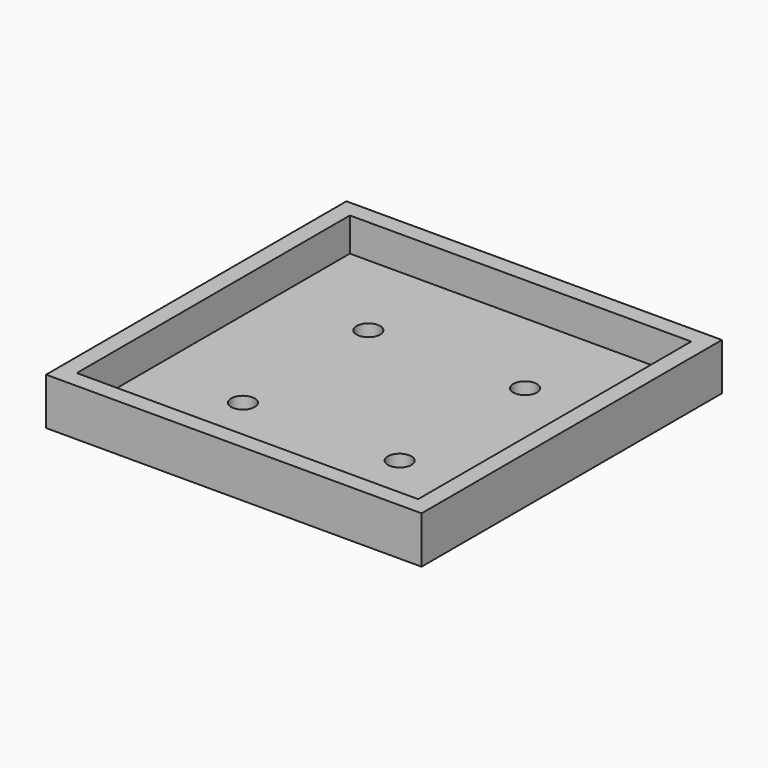
from build123d import *

# Parameters (mm, degrees)
F0_W     = 55.88
F0_H     = 55.88
F0_R     = 1.75
F1_DEPTH = 2
F2_W     = 55.88
F2_H     = 55.88
F2_W_2   = 50.8
F2_H_2   = 50.8
F3_DEPTH = 5


with BuildPart() as f1:
    # F0 (on Top) → F1 (new body)
    with BuildSketch(Plane.XY):
        Rectangle(F0_W, F0_H)
        with Locations((-11.667262, -11.667262)):
            Circle(F0_R, mode=Mode.SUBTRACT)
        with Locations((11.667262, -11.667262)):
            Circle(F0_R, mode=Mode.SUBTRACT)
        with Locations((-11.667262, 11.667262)):
            Circle(F0_R, mode=Mode.SUBTRACT)
        with Locations((11.667262, 11.667262)):
            Circle(F0_R, mode=Mode.SUBTRACT)
    extrude(amount=F1_DEPTH)

    # F2 (on face) → F3 (join)
    with BuildSketch(Plane.XY.offset(2)):
        Rectangle(F2_W, F2_H)
        Rectangle(F2_W_2, F2_H_2, mode=Mode.SUBTRACT)
    extrude(amount=F3_DEPTH)


solid = f1.part
